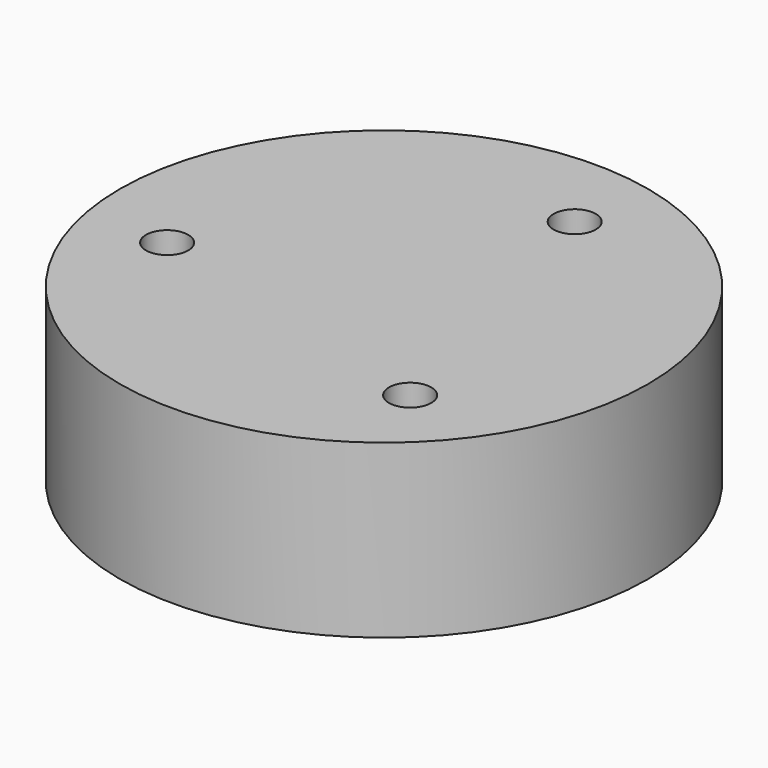
from build123d import *

# Parameters (mm, degrees)
CYLINDER044_R            = 0.8
CYLINDER044_DEPTH        = 10
ARRAY007_COUNT           = 3
ARRAY007_PLACEMENT_ANGLE = 45
CYLINDER027_R            = 4.55
CYLINDER027_DEPTH        = 10
CYLINDER026_R            = 3.9
CYLINDER026_DEPTH        = 10
CYLINDER024_R            = 1.4
CYLINDER024_DEPTH        = 10
ARRAY_COUNT              = 3
CYLINDER023_R            = 9
CYLINDER023_DEPTH        = 1.59
CYLINDER043_R            = 10
CYLINDER043_DEPTH        = 6.5


with BuildPart() as array007:
    # Cylinder044 → Cylinder044 (new body)
    with BuildSketch(Plane(origin=(7, 0, 0), x_dir=(1, 0, 0), z_dir=(0, 0, 1))):
        Circle(CYLINDER044_R)
    extrude(amount=CYLINDER044_DEPTH)

    # Array007: Array007 ×3 about axis
    array007_axis = Axis((0, 0, 0), (0, 0, 1))


with BuildPart() as array007_1:
    add(array007.part)
    for i in range(1, ARRAY007_COUNT):
        add(array007.part.rotate(array007_axis, i * 360 / ARRAY007_COUNT))


with BuildPart() as array007_2:
    # Array007 placement: moved
    add(array007_1.part.rotate(Axis((0, 0, 0), (0, 0, -1)), ARRAY007_PLACEMENT_ANGLE))


with BuildPart() as mountplatelip:
    # Cylinder027 → Cylinder027 (new body)
    with BuildSketch(Plane.XY.offset(0.6)):
        Circle(CYLINDER027_R)
    extrude(amount=CYLINDER027_DEPTH)


with BuildPart() as mountplateinnerhole:
    # Cylinder026 → Cylinder026 (new body)
    with BuildSketch(Plane.XY):
        Circle(CYLINDER026_R)
    extrude(amount=CYLINDER026_DEPTH)


with BuildPart() as fusion012:
    # Cylinder024 → Cylinder024 (new body)
    with BuildSketch(Plane(origin=(8, 0, 0), x_dir=(1, 0, 0), z_dir=(0, 0, 1))):
        Circle(CYLINDER024_R)
    extrude(amount=CYLINDER024_DEPTH)

    # Array: Fusion012 ×3 about axis
    array_axis = Axis((0, 0, 0), (0, 0, 1))


with BuildPart() as fusion012_1:
    add(fusion012.part)
    for i in range(1, ARRAY_COUNT):
        add(fusion012.part.rotate(array_axis, i * 360 / ARRAY_COUNT))

    # Fusion012: union MountPlateLip, MountPlateInnerHole
    add(mountplatelip.part)
    add(mountplateinnerhole.part)


with BuildPart() as cut013:
    # Cylinder023 → Cylinder023 (new body)
    with BuildSketch(Plane.XY):
        Circle(CYLINDER023_R)
    extrude(amount=CYLINDER023_DEPTH)

    # Cut013: cut Fusion012
    add(fusion012_1.part, mode=Mode.SUBTRACT)


with BuildPart() as cut015:
    # Cylinder043 → Cylinder043 (new body)
    with BuildSketch(Plane.XY):
        Circle(CYLINDER043_R)
    extrude(amount=CYLINDER043_DEPTH)

    # Cut014: cut Cut013
    add(cut013.part, mode=Mode.SUBTRACT)

    # Cut015: cut Array007
    add(array007_2.part, mode=Mode.SUBTRACT)


solid = cut015.part
